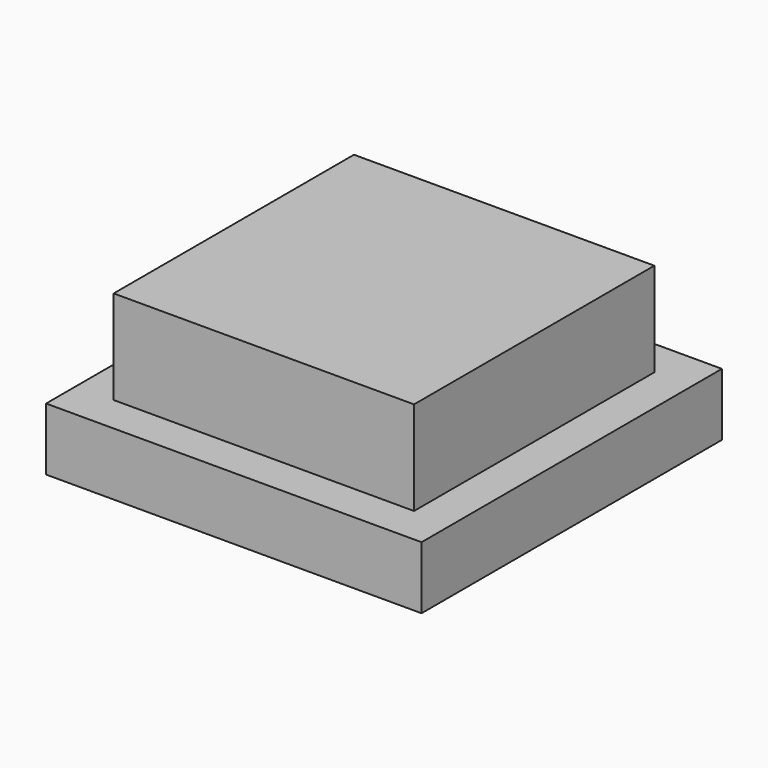
from build123d import *

# Parameters (mm, degrees)
SKETCH_W     = 19.05
SKETCH_H     = 19.05
PAD_DEPTH    = 3.175
SKETCH001_W  = 15.24
SKETCH001_H  = 15.24
PAD001_DEPTH = 4.7625


with BuildPart() as part:
    # Sketch → Pad (new body)
    with BuildSketch(Plane.XY):
        with Locations((9.525, 9.525)):
            Rectangle(SKETCH_W, SKETCH_H)
    extrude(amount=PAD_DEPTH)

    # Sketch001 → Pad001 (new body)
    with BuildSketch(Plane.XY.offset(3.175)):
        with Locations((9.525, 9.525)):
            Rectangle(SKETCH001_W, SKETCH001_H)
    extrude(amount=PAD001_DEPTH)


solid = part.part
